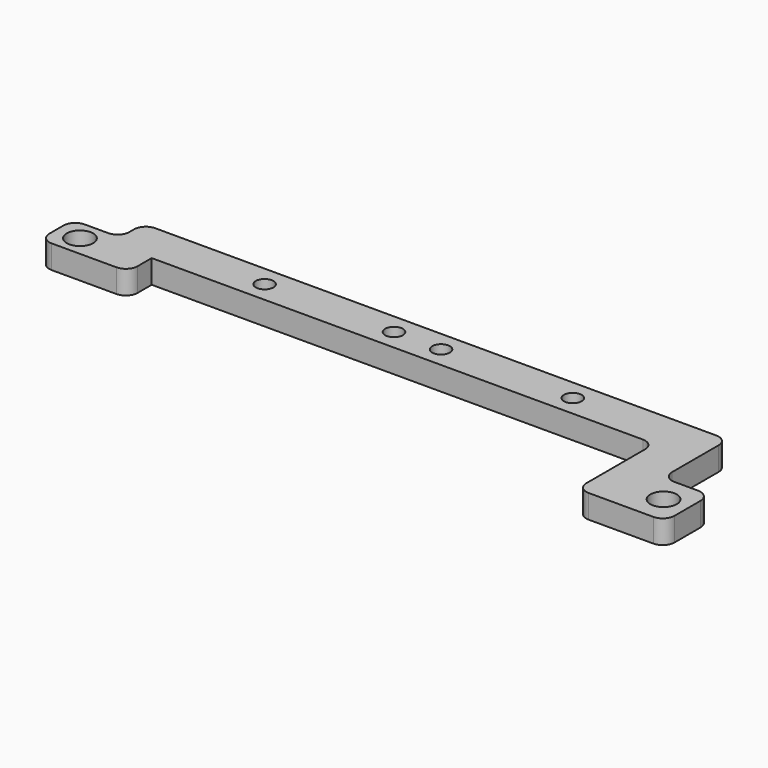
from build123d import *

# Parameters (mm, degrees)
F0_R     = 2.25
F0_R_2   = 1.5
F1_DEPTH = 2


with BuildPart() as f1:
    # F0 (on Top) → F1 (new body, symmetric)
    with BuildSketch(Plane.XY):
        with BuildLine():
            Line((46.25, 11), (57.25, 11))
            ThreePointArc((57.25, 11), (58.664214, 11.585786), (59.25, 13))
            Line((59.25, 13), (59.25, 18.5))
            ThreePointArc((59.25, 18.5), (58.634924, 19.984924), (57.15, 20.6))
            Line((57.15, 20.6), (53.15, 20.6))
            ThreePointArc((53.15, 20.6), (51.735786, 21.185786), (51.15, 22.6))
            Line((51.15, 22.6), (51.15, 32.5))
            ThreePointArc((51.15, 32.5), (50.564214, 33.914214), (49.15, 34.5))
            Line((49.15, 34.5), (-46.25, 34.5))
            ThreePointArc((-46.25, 34.5), (-47.664214, 33.914214), (-48.25, 32.5))
            Line((-48.25, 32.5), (-48.25, 31.5))
            ThreePointArc((-48.25, 31.5), (-48.835786, 30.085786), (-50.25, 29.5))
            Line((-50.25, 29.5), (-54.25, 29.5))
            ThreePointArc((-54.25, 29.5), (-55.664214, 28.914214), (-56.25, 27.5))
            Line((-56.25, 27.5), (-56.25, 24.5))
            ThreePointArc((-56.25, 24.5), (-55.664214, 23.085786), (-54.25, 22.5))
            Line((-54.25, 22.5), (-43.25, 22.5))
            ThreePointArc((-43.25, 22.5), (-41.835786, 23.085786), (-41.25, 24.5))
            Line((-41.25, 24.5), (-41.25, 27.5))
            Line((-41.25, 27.5), (42.25, 27.5))
            ThreePointArc((42.25, 27.5), (43.664214, 26.914214), (44.25, 25.5))
            Line((44.25, 25.5), (44.25, 13))
            ThreePointArc((44.25, 13), (44.835786, 11.585786), (46.25, 11))
        make_face()
        with Locations((55.15, 15.8)):
            Circle(F0_R, mode=Mode.SUBTRACT)
        with Locations((-52.25, 26)):
            Circle(F0_R, mode=Mode.SUBTRACT)
        with Locations((-24.85, 31)):
            Circle(F0_R_2, mode=Mode.SUBTRACT)
        with Locations((-2.85, 31)):
            Circle(F0_R_2, mode=Mode.SUBTRACT)
        with Locations((5.15, 31)):
            Circle(F0_R_2, mode=Mode.SUBTRACT)
        with Locations((27.55, 31)):
            Circle(F0_R_2, mode=Mode.SUBTRACT)
    extrude(amount=F1_DEPTH, both=True)


solid = f1.part
